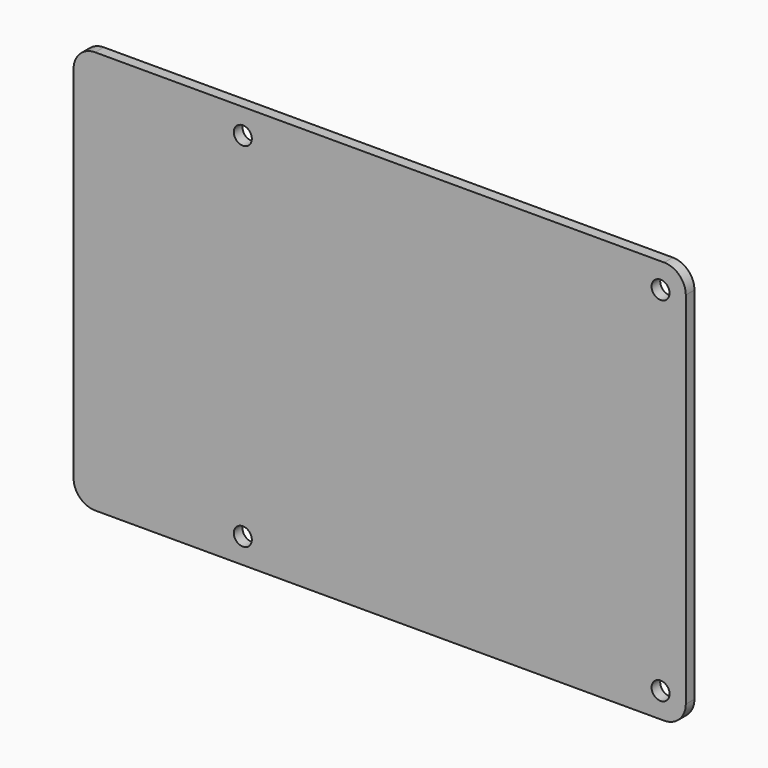
from build123d import *

# Parameters (mm, degrees)
F0_W     = 85
F0_H     = 56
F1_DEPTH = 1.5
F2_R     = 3
F3_R     = 1.25
F4_DEPTH = 1.501


with BuildPart() as f1:
    # F0 (on Front) → F1 (new body)
    with BuildSketch(Plane.XZ):
        Rectangle(F0_W, F0_H)
    extrude(amount=F1_DEPTH)

    # F2
    f2_edges = [f1.edges().sort_by_distance(p)[0] for p in [
        (-42.5, -0.75, 28),
        (42.5, -0.75, 28),
        (42.5, -0.75, -28),
        (-42.5, -0.75, -28),
    ]]
    fillet(f2_edges, radius=F2_R)

    # F3 (on face) → F4 (cut, through all)
    with BuildSketch(Plane.XZ.offset(1.5)):
        with Locations((39, 24.5)):
            Circle(F3_R)
        with Locations((-19, 24.5)):
            Circle(F3_R)
        with Locations((-19, -24.5)):
            Circle(F3_R)
        with Locations((39, -24.5)):
            Circle(F3_R)
    extrude(amount=-F4_DEPTH, mode=Mode.SUBTRACT)


solid = f1.part
